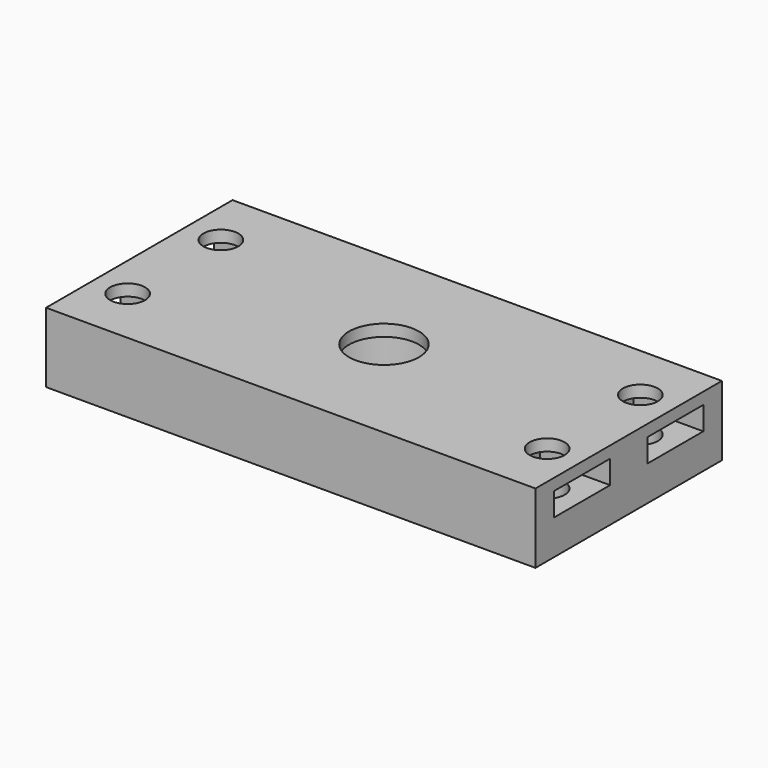
from build123d import *

# Parameters (mm, degrees)
CYLINDER1631_R     = 1.5
CYLINDER1631_DEPTH = 60
CYLINDER1632_R     = 1.5
CYLINDER1632_DEPTH = 60
CYLINDER1633_R     = 1.5
CYLINDER1633_DEPTH = 60
CYLINDER1630_R     = 1.5
CYLINDER1630_DEPTH = 60
BOX649_W           = 6
BOX649_H           = 6
BOX649_DEPTH       = 2
BOX650_W           = 6
BOX650_H           = 6
BOX650_DEPTH       = 2
BOX651_W           = 6
BOX651_H           = 6
BOX651_DEPTH       = 2
BOX648_W           = 6
BOX648_H           = 6
BOX648_DEPTH       = 2
CYLINDER1626_R     = 5
CYLINDER1626_DEPTH = 5
CYLINDER1625_R     = 3
CYLINDER1625_DEPTH = 48
BOX652_W           = 42
BOX652_H           = 20
BOX652_DEPTH       = 6


with BuildPart() as obj1:
    # Cylinder1631 → Cylinder1631 (new body)
    with BuildSketch(Plane(origin=(18, 85, -57), x_dir=(1, 0, 0), z_dir=(0, 0, 1))):
        Circle(CYLINDER1631_R)
    extrude(amount=CYLINDER1631_DEPTH)


with BuildPart() as obj2:
    # Cylinder1632 → Cylinder1632 (new body)
    with BuildSketch(Plane(origin=(-18, 85, -57), x_dir=(1, 0, 0), z_dir=(0, 0, 1))):
        Circle(CYLINDER1632_R)
    extrude(amount=CYLINDER1632_DEPTH)


with BuildPart() as obj3:
    # Cylinder1633 → Cylinder1633 (new body)
    with BuildSketch(Plane(origin=(-18, 95, -57), x_dir=(1, 0, 0), z_dir=(0, 0, 1))):
        Circle(CYLINDER1633_R)
    extrude(amount=CYLINDER1633_DEPTH)


with BuildPart() as compound808:
    # Cylinder1630 → Cylinder1630 (new body)
    with BuildSketch(Plane(origin=(18, 95, -57), x_dir=(1, 0, 0), z_dir=(0, 0, 1))):
        Circle(CYLINDER1630_R)
    extrude(amount=CYLINDER1630_DEPTH)

    # Compound808: union obj1, obj2, obj3
    add(obj1.part)
    add(obj2.part)
    add(obj3.part)


with BuildPart() as krychle649:
    # Box649 → Box649 (new body)
    with BuildSketch(Plane(origin=(-21, 92, -56), x_dir=(1, 0, 0), z_dir=(0, 0, 1))):
        with Locations((3, 3)):
            Rectangle(BOX649_W, BOX649_H)
    extrude(amount=BOX649_DEPTH)


with BuildPart() as krychle650:
    # Box650 → Box650 (new body)
    with BuildSketch(Plane(origin=(15, 82, -56), x_dir=(1, 0, 0), z_dir=(0, 0, 1))):
        with Locations((3, 3)):
            Rectangle(BOX650_W, BOX650_H)
    extrude(amount=BOX650_DEPTH)


with BuildPart() as krychle651:
    # Box651 → Box651 (new body)
    with BuildSketch(Plane(origin=(15, 92, -56), x_dir=(1, 0, 0), z_dir=(0, 0, 1))):
        with Locations((3, 3)):
            Rectangle(BOX651_W, BOX651_H)
    extrude(amount=BOX651_DEPTH)


with BuildPart() as compound807:
    # Box648 → Box648 (new body)
    with BuildSketch(Plane(origin=(-21, 82, -56), x_dir=(1, 0, 0), z_dir=(0, 0, 1))):
        with Locations((3, 3)):
            Rectangle(BOX648_W, BOX648_H)
    extrude(amount=BOX648_DEPTH)

    # Compound807: union Krychle649, Krychle650, Krychle651
    add(krychle649.part)
    add(krychle650.part)
    add(krychle651.part)


with BuildPart() as compound807_1:
    # Compound807 placement: moved
    add(compound807.part.moved(Location((0, 0, 21))))


with BuildPart() as obj4:
    # Cylinder1626 → Cylinder1626 (new body)
    with BuildSketch(Plane(origin=(0, 90, -38), x_dir=(1, 0, 0), z_dir=(0, 0, 1))):
        Circle(CYLINDER1626_R)
    extrude(amount=CYLINDER1626_DEPTH)


with BuildPart() as obj5:
    # Cylinder1625 → Cylinder1625 (new body)
    with BuildSketch(Plane(origin=(0, 90, -55), x_dir=(1, 0, 0), z_dir=(0, 0, 1))):
        Circle(CYLINDER1625_R)
    extrude(amount=CYLINDER1625_DEPTH)


with BuildPart() as cut321:
    # Box652 → Box652 (new body)
    with BuildSketch(Plane(origin=(-21, 80, -38), x_dir=(1, 0, 0), z_dir=(0, 0, 1))):
        with Locations((21, 10)):
            Rectangle(BOX652_W, BOX652_H)
    extrude(amount=BOX652_DEPTH)

    # Cut312: cut obj5
    add(obj5.part, mode=Mode.SUBTRACT)

    # Cut314: cut obj4
    add(obj4.part, mode=Mode.SUBTRACT)

    # Cut319: cut Compound807
    add(compound807_1.part, mode=Mode.SUBTRACT)

    # Cut321: cut Compound808
    add(compound808.part, mode=Mode.SUBTRACT)


solid = cut321.part
